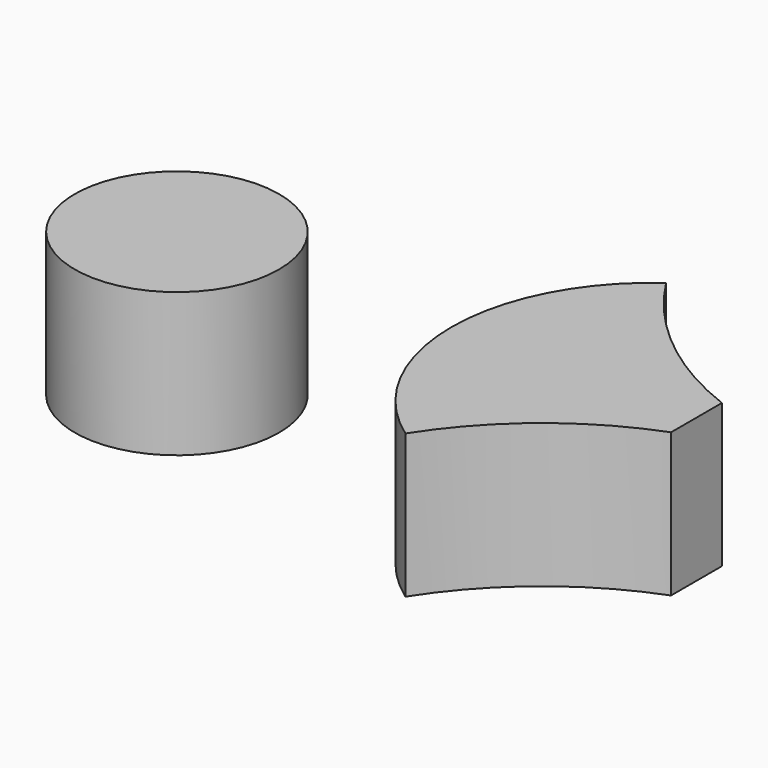
from build123d import *

# Parameters (mm, degrees)
F0_R     = 3.251044
F1_DEPTH = 4.572


with BuildPart() as f1:
    # F0 (on Top) → F1 (new body)
    with BuildSketch(Plane.XY):
        with Locations((0.3175, 0.0635)):
            Circle(F0_R)
        with BuildLine():
            ThreePointArc((16.648034, 1.329108), (13.755349, 3.005007), (11.532436, 5.50199))
            ThreePointArc((11.532436, 5.50199), (8.849202, 0.3175), (11.532436, -4.86699))
            ThreePointArc((11.532436, -4.86699), (13.755349, -2.370007), (16.648034, -0.694108))
            Line((16.648034, -0.694108), (16.648034, 0.3175))
            Line((16.648034, 0.3175), (16.648034, 1.329108))
        make_face()
    extrude(amount=F1_DEPTH)


solid = f1.part
